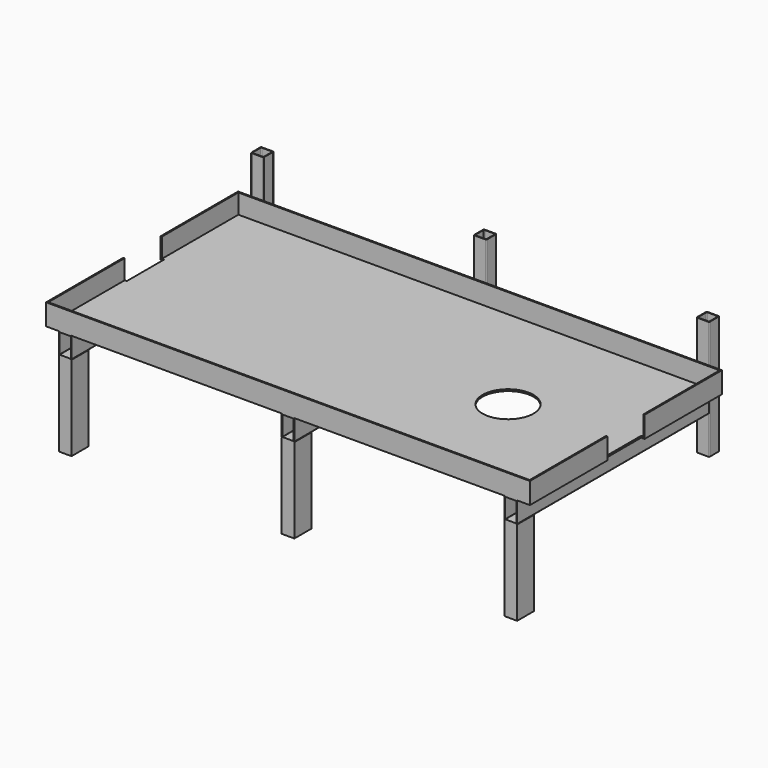
from build123d import *

# Parameters (mm, degrees)
F0_R          = 60
F1_DEPTH      = 4
F2_DEPTH      = 50
F4_DEPTH      = 566
F5_DEPTH      = 140
F5_DEPTH_BACK = 140
F6_W          = 30
F6_H          = 50
F6_W_2        = 26.8
F6_H_2        = 46.8
F7_DEPTH      = 200


with BuildPart() as f1:
    # F0 (on Top) → F1 (new body)
    with BuildSketch(Plane.XY):
        Polygon((567.5, 55), (567.5, 280), (-567.5, 280), (-567.5, 55), (-562.5, 55), (-562.5, -55), (-567.5, -55), (-567.5, -280), (567.5, -280), (567.5, -55), (562.5, -55), (562.5, 55), align=None)
        with Locations((292.5, 0)):
            Circle(F0_R, mode=Mode.SUBTRACT)
    extrude(amount=F1_DEPTH)

    # F0 (on Top) → F2 (join)
    with BuildSketch(Plane.XY):
        Polygon((-567.5, 280), (567.5, 280), (567.5, 55), (570.5, 55), (570.5, 283), (538.5, 283), (512.5, 283), (13, 283), (-13, 283), (-512.5, 283), (-538.5, 283), (-570.5, 283), (-570.5, 55), (-567.5, 55), align=None)
        Polygon((570.5, -55), (567.5, -55), (567.5, -280), (-567.5, -280), (-567.5, -55), (-570.5, -55), (-570.5, -283), (570.5, -283), align=None)
    extrude(amount=F2_DEPTH)

    # F3 (on face) → F4 (join)
    with BuildSketch(Plane.XZ.offset(283)):
        with BuildLine():
            Line((-512.5, 0), (-538.5, 0))
            ThreePointArc((-538.5, 0), (-539.9142135624, -0.5857864376), (-540.5, -2))
            Line((-540.5, -2), (-540.5, -48))
            ThreePointArc((-540.5, -48), (-539.9142135624, -49.4142135624), (-538.5, -50))
            Line((-538.5, -50), (-512.5, -50))
            ThreePointArc((-512.5, -50), (-511.0857864376, -49.4142135624), (-510.5, -48))
            Line((-510.5, -48), (-510.5, -2))
            ThreePointArc((-510.5, -2), (-511.0857864376, -0.5857864376), (-512.5, 0))
        make_face()
        with BuildLine():
            Line((-538.9, -48), (-538.9, -2))
            ThreePointArc((-538.9, -2), (-538.7828427125, -1.7171572875), (-538.5, -1.6))
            Line((-538.5, -1.6), (-512.5, -1.6))
            ThreePointArc((-512.5, -1.6), (-512.2171572875, -1.7171572875), (-512.1, -2))
            Line((-512.1, -2), (-512.1, -48))
            ThreePointArc((-512.1, -48), (-512.2171572875, -48.2828427125), (-512.5, -48.4))
            Line((-512.5, -48.4), (-538.5, -48.4))
            ThreePointArc((-538.5, -48.4), (-538.7828427125, -48.2828427125), (-538.9, -48))
        make_face(mode=Mode.SUBTRACT)
        with BuildLine():
            Line((13, 0), (-13, 0))
            ThreePointArc((-13, 0), (-14.4142135624, -0.5857864376), (-15, -2))
            Line((-15, -2), (-15, -48))
            ThreePointArc((-15, -48), (-14.4142135624, -49.4142135624), (-13, -50))
            Line((-13, -50), (13, -50))
            ThreePointArc((13, -50), (14.4142135624, -49.4142135624), (15, -48))
            Line((15, -48), (15, -2))
            ThreePointArc((15, -2), (14.4142135624, -0.5857864376), (13, 0))
        make_face()
        with BuildLine():
            Line((-13.4, -48), (-13.4, -2))
            ThreePointArc((-13.4, -2), (-13.2828427125, -1.7171572875), (-13, -1.6))
            Line((-13, -1.6), (13, -1.6))
            ThreePointArc((13, -1.6), (13.2828427125, -1.7171572875), (13.4, -2))
            Line((13.4, -2), (13.4, -48))
            ThreePointArc((13.4, -48), (13.2828427125, -48.2828427125), (13, -48.4))
            Line((13, -48.4), (-13, -48.4))
            ThreePointArc((-13, -48.4), (-13.2828427125, -48.2828427125), (-13.4, -48))
        make_face(mode=Mode.SUBTRACT)
        with BuildLine():
            Line((538.5, 0), (512.5, 0))
            ThreePointArc((512.5, 0), (511.0857864376, -0.5857864376), (510.5, -2))
            Line((510.5, -2), (510.5, -48))
            ThreePointArc((510.5, -48), (511.0857864376, -49.4142135624), (512.5, -50))
            Line((512.5, -50), (538.5, -50))
            ThreePointArc((538.5, -50), (539.9142135624, -49.4142135624), (540.5, -48))
            Line((540.5, -48), (540.5, -2))
            ThreePointArc((540.5, -2), (539.9142135624, -0.5857864376), (538.5, 0))
        make_face()
        with BuildLine():
            ThreePointArc((538.9, -48), (538.7828427125, -48.2828427125), (538.5, -48.4))
            Line((538.5, -48.4), (512.5, -48.4))
            ThreePointArc((512.5, -48.4), (512.2171572875, -48.2828427125), (512.1, -48))
            Line((512.1, -48), (512.1, -2))
            ThreePointArc((512.1, -2), (512.2171572875, -1.7171572875), (512.5, -1.6))
            Line((512.5, -1.6), (538.5, -1.6))
            ThreePointArc((538.5, -1.6), (538.7828427125, -1.7171572875), (538.9, -2))
            Line((538.9, -2), (538.9, -48))
        make_face(mode=Mode.SUBTRACT)
    extrude(amount=-F4_DEPTH)

    # F0 (on Top) → F5 (join, two sides)
    with BuildSketch(Plane.XY) as f5_sk:
        with BuildLine():
            ThreePointArc((-540.5, 285), (-539.9142135624, 283.5857864376), (-538.5, 283))
            Line((-538.5, 283), (-512.5, 283))
            ThreePointArc((-512.5, 283), (-511.0857864376, 283.5857864376), (-510.5, 285))
            Line((-510.5, 285), (-510.5, 311))
            ThreePointArc((-510.5, 311), (-511.0857864376, 312.4142135624), (-512.5, 313))
            Line((-512.5, 313), (-538.5, 313))
            ThreePointArc((-538.5, 313), (-539.9142135624, 312.4142135624), (-540.5, 311))
            Line((-540.5, 311), (-540.5, 285))
        make_face()
        with BuildLine():
            ThreePointArc((-536.9, 284.6), (-538.3142135624, 285.1857864376), (-538.9, 286.6))
            Line((-538.9, 286.6), (-538.9, 309.4))
            ThreePointArc((-538.9, 309.4), (-538.3142135624, 310.8142135624), (-536.9, 311.4))
            Line((-536.9, 311.4), (-514.1, 311.4))
            ThreePointArc((-514.1, 311.4), (-512.6857864376, 310.8142135624), (-512.1, 309.4))
            Line((-512.1, 309.4), (-512.1, 286.6))
            ThreePointArc((-512.1, 286.6), (-512.6857864376, 285.1857864376), (-514.1, 284.6))
            Line((-514.1, 284.6), (-536.9, 284.6))
        make_face(mode=Mode.SUBTRACT)
        with BuildLine():
            Line((-13, 283), (13, 283))
            ThreePointArc((13, 283), (14.4142135624, 283.5857864376), (15, 285))
            Line((15, 285), (15, 311))
            ThreePointArc((15, 311), (14.4142135624, 312.4142135624), (13, 313))
            Line((13, 313), (-13, 313))
            ThreePointArc((-13, 313), (-14.4142135624, 312.4142135624), (-15, 311))
            Line((-15, 311), (-15, 285))
            ThreePointArc((-15, 285), (-14.4142135624, 283.5857864376), (-13, 283))
        make_face()
        with BuildLine():
            Line((13.4, 309.4), (13.4, 286.6))
            ThreePointArc((13.4, 286.6), (12.8142135624, 285.1857864376), (11.4, 284.6))
            Line((11.4, 284.6), (-11.4, 284.6))
            ThreePointArc((-11.4, 284.6), (-12.8142135624, 285.1857864376), (-13.4, 286.6))
            Line((-13.4, 286.6), (-13.4, 309.4))
            ThreePointArc((-13.4, 309.4), (-12.8142135624, 310.8142135624), (-11.4, 311.4))
            Line((-11.4, 311.4), (11.4, 311.4))
            ThreePointArc((11.4, 311.4), (12.8142135624, 310.8142135624), (13.4, 309.4))
        make_face(mode=Mode.SUBTRACT)
        with BuildLine():
            Line((512.5, 283), (538.5, 283))
            ThreePointArc((538.5, 283), (539.9142135624, 283.5857864376), (540.5, 285))
            Line((540.5, 285), (540.5, 311))
            ThreePointArc((540.5, 311), (539.9142135624, 312.4142135624), (538.5, 313))
            Line((538.5, 313), (512.5, 313))
            ThreePointArc((512.5, 313), (511.0857864376, 312.4142135624), (510.5, 311))
            Line((510.5, 311), (510.5, 285))
            ThreePointArc((510.5, 285), (511.0857864376, 283.5857864376), (512.5, 283))
        make_face()
        with BuildLine():
            Line((514.1, 311.4), (536.9, 311.4))
            ThreePointArc((536.9, 311.4), (538.3142135624, 310.8142135624), (538.9, 309.4))
            Line((538.9, 309.4), (538.9, 286.6))
            ThreePointArc((538.9, 286.6), (538.3142135624, 285.1857864376), (536.9, 284.6))
            Line((536.9, 284.6), (514.1, 284.6))
            ThreePointArc((514.1, 284.6), (512.6857864376, 285.1857864376), (512.1, 286.6))
            Line((512.1, 286.6), (512.1, 309.4))
            ThreePointArc((512.1, 309.4), (512.6857864376, 310.8142135624), (514.1, 311.4))
        make_face(mode=Mode.SUBTRACT)
    extrude(amount=-F5_DEPTH)
    extrude(f5_sk.sketch, amount=F5_DEPTH_BACK)

    # F6 (on face) → F7 (join)
    with BuildSketch(Plane(origin=(0, 0, -50), x_dir=(1, 0, 0), z_dir=(0, 0, -1))):
        with Locations((0, 258)):
            Rectangle(F6_W, F6_H)
        with Locations((0, 258)):
            Rectangle(F6_W_2, F6_H_2, mode=Mode.SUBTRACT)
        with Locations((-525.5, 258)):
            Rectangle(F6_W, F6_H)
        with Locations((-525.5, 258)):
            Rectangle(F6_W_2, F6_H_2, mode=Mode.SUBTRACT)
        with Locations((525.5, 258)):
            Rectangle(F6_W, F6_H)
        with Locations((525.5, 258)):
            Rectangle(F6_W_2, F6_H_2, mode=Mode.SUBTRACT)
    extrude(amount=F7_DEPTH)


solid = f1.part
